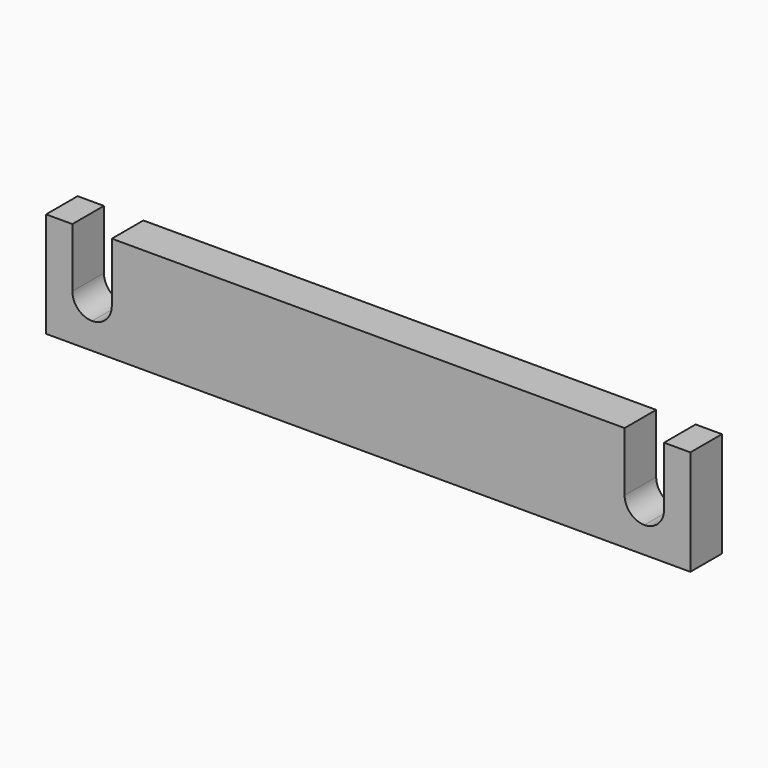
from build123d import *

# Parameters (mm, degrees)
F0_W     = 311.15
F0_H     = 50.8
F1_DEPTH = 19.05
F3_DEPTH = 19.051


with BuildPart() as f1:
    # F0 (on Front) → F1 (new body)
    with BuildSketch(Plane.XZ):
        with Locations((155.575, 25.4)):
            Rectangle(F0_W, F0_H)
    extrude(amount=F1_DEPTH)

    # F2 (on face) → F3 (cut, through all)
    with BuildSketch(Plane.XZ.offset(19.05)):
        with BuildLine():
            Line((31.75, 50.8), (12.7, 50.8))
            Line((12.7, 50.8), (12.7, 22.225))
            ThreePointArc((12.7, 22.225), (15.489808, 15.489808), (22.225, 12.7))
            ThreePointArc((22.225, 12.7), (28.960192, 15.489808), (31.75, 22.225))
            Line((31.75, 22.225), (31.75, 50.8))
        make_face()
        with BuildLine():
            Line((298.45, 50.8), (279.4, 50.8))
            Line((279.4, 50.8), (279.4, 22.225))
            ThreePointArc((279.4, 22.225), (282.189808, 15.489808), (288.925, 12.7))
            ThreePointArc((288.925, 12.7), (295.660192, 15.489808), (298.45, 22.225))
            Line((298.45, 22.225), (298.45, 50.8))
        make_face()
    extrude(amount=-F3_DEPTH, mode=Mode.SUBTRACT)


solid = f1.part
